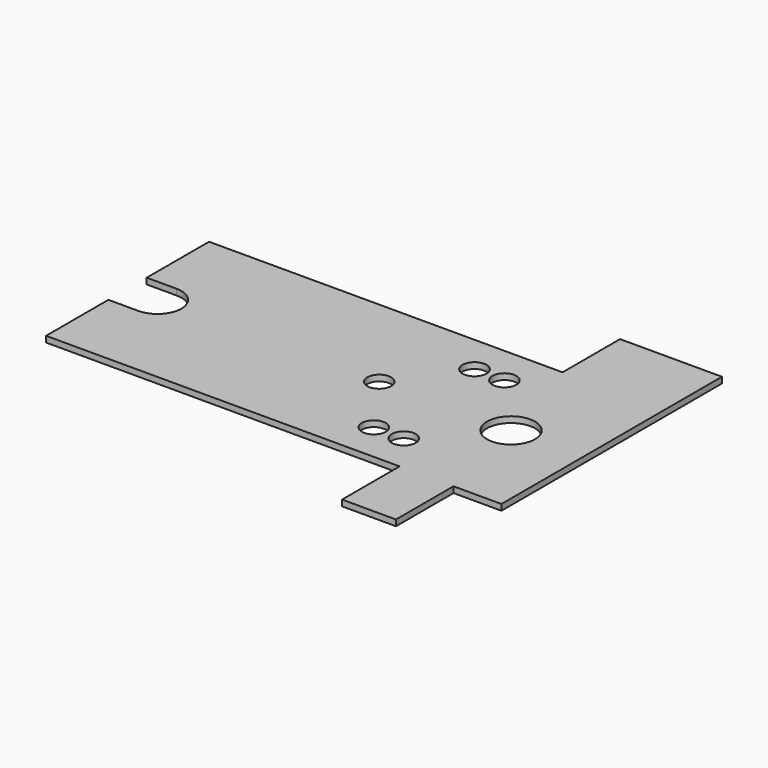
from build123d import *

# Parameters (mm, degrees)
F0_W     = 13
F0_H     = 17
F0_W_2   = 12
F0_H_2   = 34
F0_R     = 2
F0_W_3   = 9
F0_H_3   = 12
F0_W_4   = 17
F0_R_2   = 4
F1_DEPTH = 1


with BuildPart() as f1:
    # F0 (on Top) → F1 (new body)
    with BuildSketch(Plane.XY):
        with BuildLine():
            Line((-59, 0), (-42, 0))
            Line((-42, 0), (-42, 17))
            Line((-42, 17), (-50, 17))
            ThreePointArc((-50, 17), (-51.171573, 14.171573), (-54, 13))
            Line((-54, 13), (-59, 13))
            Line((-59, 13), (-59, 0))
        make_face()
        with BuildLine():
            Line((-42, 17), (-42, 34))
            Line((-42, 34), (-59, 34))
            Line((-59, 34), (-59, 21))
            Line((-59, 21), (-54, 21))
            ThreePointArc((-54, 21), (-51.171573, 19.828427), (-50, 17))
            Line((-50, 17), (-42, 17))
        make_face()
        with Locations((-35.5, 25.5)):
            Rectangle(F0_W, F0_H)
        with Locations((-35.5, 8.5)):
            Rectangle(F0_W, F0_H)
        Polygon((-29, 0), (-12, 0), (-12, 34), (-29, 34), (-29, 17), align=None)
        with BuildLine():
            ThreePointArc((-15, 17), (-17, 15), (-19, 17))
            ThreePointArc((-19, 17), (-17, 19), (-15, 17))
        make_face(mode=Mode.SUBTRACT)
        with Locations((-6, 17)):
            Rectangle(F0_W_2, F0_H_2)
        with Locations((-9.5, 6.5)):
            Circle(F0_R, mode=Mode.SUBTRACT)
        with Locations((-4.5, 6.5)):
            Circle(F0_R, mode=Mode.SUBTRACT)
        with Locations((-9.5, 27.5)):
            Circle(F0_R, mode=Mode.SUBTRACT)
        with Locations((-4.5, 27.5)):
            Circle(F0_R, mode=Mode.SUBTRACT)
        with Locations((4.5, -6)):
            Rectangle(F0_W_3, F0_H_3)
        with Locations((8.5, 40)):
            Rectangle(F0_W_4, F0_H_3)
        Polygon((0, 34), (0, 0), (9, 0), (17, 0), (17, 34), align=None)
        with Locations((5, 17)):
            Circle(F0_R_2, mode=Mode.SUBTRACT)
    extrude(amount=F1_DEPTH)


solid = f1.part
